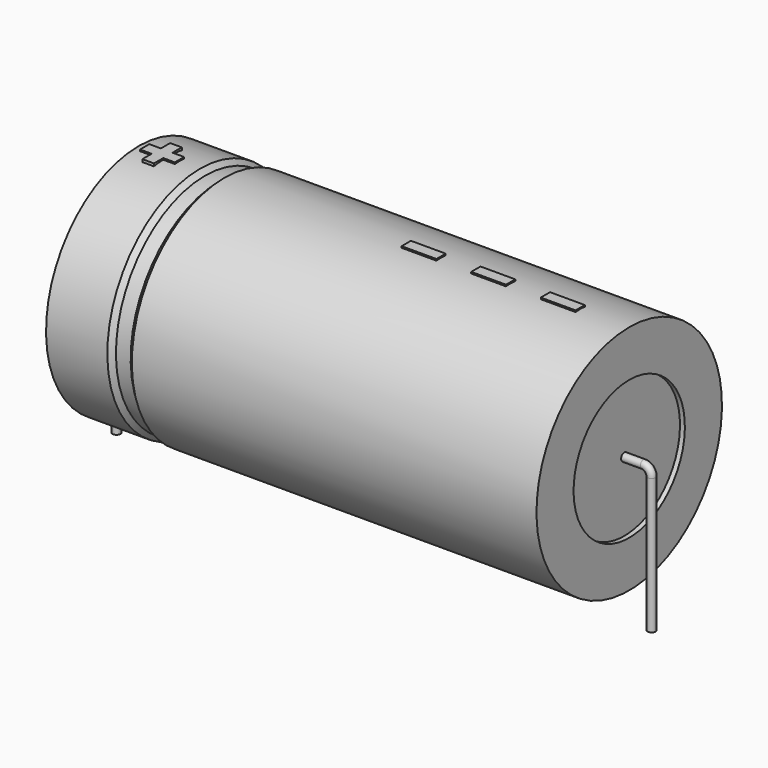
from build123d import *

# Parameters (mm, degrees)
SKETCH_R    = 0.45
SKETCH004_W = 3.9
SKETCH004_H = 1.3
PAD_DEPTH   = 13.13


with BuildPart() as sweep_body:
    # Sweep: sweep along a path in Sketch001
    with BuildLine(Plane.XZ) as sweep_path:
        Line((0, -3), (0, 12.2))
        ThreePointArc((0, 12.2), (0.263601, 12.836393), (0.899993, 13.1))
        Line((0.899993, 13.1), (59.1, 13.1))
        ThreePointArc((59.1, 13.1), (59.736396, 12.836396), (60, 12.2))
        Line((60, 12.2), (60, -3))
    # Sketch → Sweep (sweep)
    with BuildSketch(Plane.XY.offset(-2)):
        Circle(SKETCH_R)
    sweep(path=sweep_path.line)


with BuildPart() as revolution:
    # Sketch002 → Revolution (revolve)
    with BuildSketch(Plane.XZ):
        Polygon((2.5, 26.1), (2.5, 20.9), (57.5, 20.9), (57.5, 26.1), (12.125, 26.1), (11.575, 25.58), (9.925, 25.58), (9.375, 26.1), align=None)
    revolve(axis=Axis((6.97588, 0, 13.1), (1, 0, 0)))


with BuildPart() as revolution001:
    # Sketch003 → Revolution001 (revolve)
    with BuildSketch(Plane.XZ):
        Polygon((3.05, 25.58), (5.8, 25.58), (5.8, 14.4), (54.2, 14.4), (54.2, 25.58), (56.95, 25.58), (56.95, 13.1), (3.05, 13.1), align=None)
    revolve(axis=Axis((6.97588, 0, 13.1), (1, 0, 0)))


with BuildPart() as pad:
    # Sketch004 → Pad (new body)
    with BuildSketch(Plane.XY.offset(13.1)):
        with Locations((50.05, 0)):
            Rectangle(SKETCH004_W, SKETCH004_H)
        with Locations((42.25, 0)):
            Rectangle(SKETCH004_W, SKETCH004_H)
        with Locations((34.45, 0)):
            Rectangle(SKETCH004_W, SKETCH004_H)
        Polygon((4.46, 0.65), (3.16, 0.65), (3.16, -0.65), (4.46, -0.65), (4.46, -1.95), (5.76, -1.95), (5.76, -0.65), (7.06, -0.65), (7.06, 0.65), (5.76, 0.65), (5.76, 1.95), (4.46, 1.95), align=None)
    extrude(amount=PAD_DEPTH)


solid = Compound([sweep_body.part, revolution.part, revolution001.part, pad.part])
